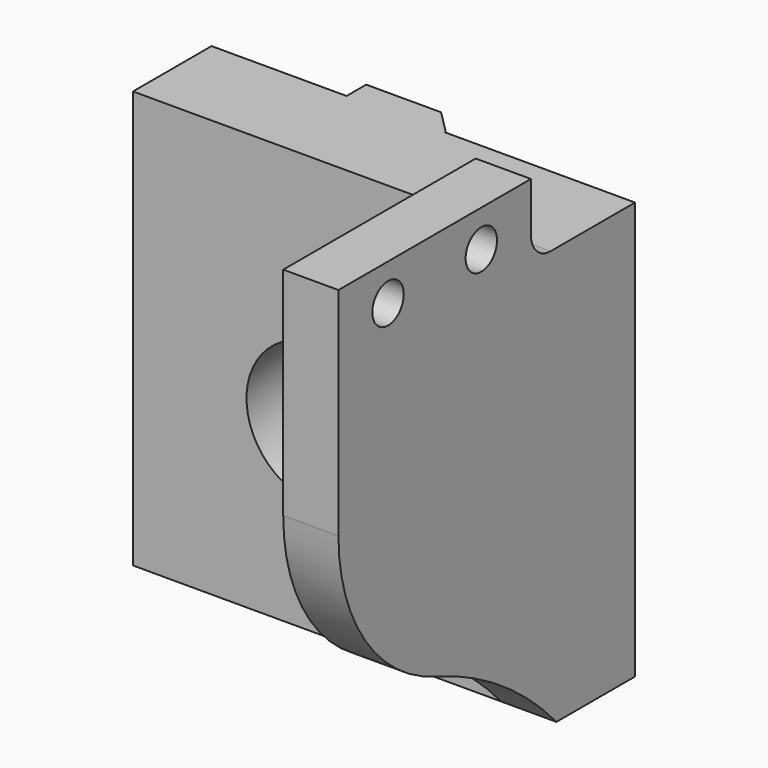
from build123d import *

# Parameters (mm, degrees)
PAD_DEPTH       = 40
SKETCH001_R     = 3.15
POCKET_DEPTH    = 8.001
POCKET001_DEPTH = 6
SKETCH003_R     = 5.75
POCKET002_DEPTH = 4
POCKET003_DEPTH = 4.501
FILLET_R        = 15
FILLET001_R     = 2
SKETCH005_R     = 1.6
POCKET004_DEPTH = 34.501
SKETCH006_W     = 8
SKETCH006_H     = 14.5
SKETCH006_H_2   = 10.5
PAD001_DEPTH    = 2
CHAMFER_SIZE    = 1.9


with BuildPart() as part:
    # Sketch → Pad (new body)
    with BuildSketch(Plane.XY):
        Polygon((-15, 0), (15, 0), (19.5, 0), (19.5, -30.2), (15, -30.2), (15, -8), (-15, -8), align=None)
    extrude(amount=PAD_DEPTH)

    # Sketch001 (on Face6 of Pad) → Pocket (cut, through all)
    with BuildSketch(Plane.XZ.offset(8)):
        with Locations((0, 15)):
            Circle(SKETCH001_R)
    extrude(amount=-POCKET_DEPTH, mode=Mode.SUBTRACT)

    # Sketch002 (on Face4 of Pocket) → Pocket001 (cut)
    with BuildSketch(Plane.XY.offset(40)):
        Polygon((-15, 0), (19.5, 0), (19.5, -10.6), (15, -10.6), (15, -8), (-15, -8), align=None)
    extrude(amount=-POCKET001_DEPTH, mode=Mode.SUBTRACT)

    # Sketch003 (on Face10 of Pocket001) → Pocket002 (cut)
    with BuildSketch(Plane.XZ.offset(8)):
        with Locations((0, 15)):
            Circle(SKETCH003_R)
    extrude(amount=-POCKET002_DEPTH, mode=Mode.SUBTRACT)

    # Sketch004 (on Face9 of Pocket002) → Pocket003 (cut, through all)
    with BuildSketch(Plane(origin=(15, 0, 0), x_dir=(0, -1, 0), z_dir=(-1, 0, 0))):
        with BuildLine():
            ThreePointArc((30.2, 10), (18.043042, 7.346447), (8, 0))
            Line((30.2, 0), (8, 0))
            Line((30.2, 10), (30.2, 0))
        make_face()
    extrude(amount=-POCKET003_DEPTH, mode=Mode.SUBTRACT)

    # Fillet
    fillet_edges = [part.edges().sort_by_distance(p)[0] for p in [
        (17.25, -30.2, 10),
    ]]
    fillet(fillet_edges, radius=FILLET_R)

    # Fillet001
    fillet001_edges = [part.edges().sort_by_distance(p)[0] for p in [
        (17.25, -10.6, 34),
    ]]
    fillet(fillet001_edges, radius=FILLET001_R)

    # Sketch005 (on Face10 of Fillet001) → Pocket004 (cut, through all)
    with BuildSketch(Plane.YZ.offset(19.5)):
        with Locations((-15.65, 37)):
            Circle(SKETCH005_R)
        with Locations((-25.15, 37)):
            Circle(SKETCH005_R)
    extrude(amount=-POCKET004_DEPTH, mode=Mode.SUBTRACT)

    # Sketch006 (on Face13 of Pocket004) → Pad001 (join)
    with BuildSketch(Plane(origin=(0, 0, 0), x_dir=(-1, 0, 0), z_dir=(0, 1, 0))):
        with Locations((0, 26.75)):
            Rectangle(SKETCH006_W, SKETCH006_H)
        with Locations((0, 5.25)):
            Rectangle(SKETCH006_W, SKETCH006_H_2)
    extrude(amount=PAD001_DEPTH)

    # Chamfer
    chamfer_edges = [part.edges().sort_by_distance(p)[0] for p in [
        (4, 2, 26.75),
        (4, 2, 5.25),
    ]]
    chamfer(chamfer_edges, length=CHAMFER_SIZE)


solid = part.part
